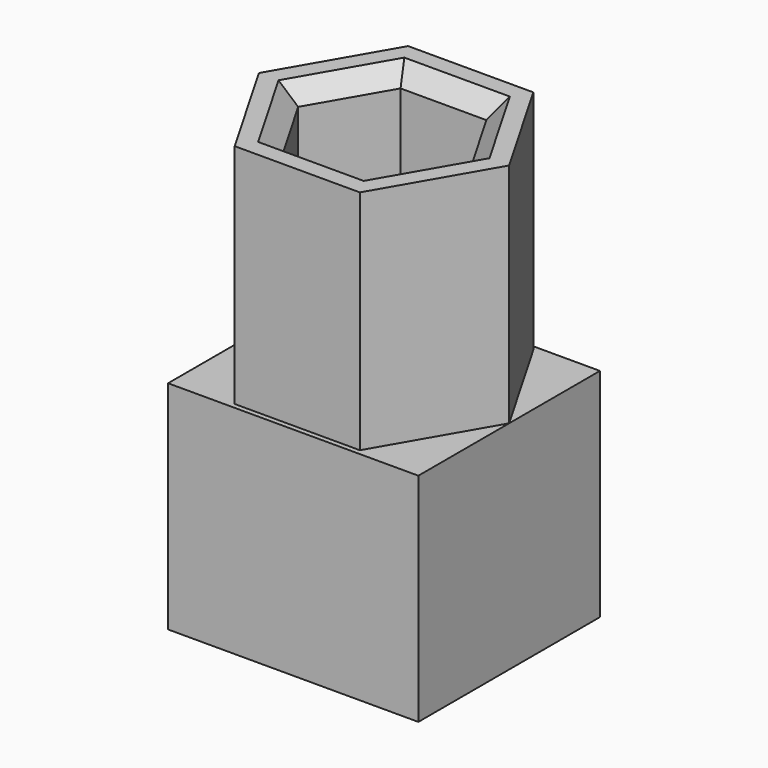
from build123d import *

# Parameters (mm, degrees)
SKETCH_W     = 22.05478
SKETCH_H     = 19.1
PAD_DEPTH    = 20
PAD001_DEPTH = 20
POCKET_DEPTH = 36.1
CHAMFER_SIZE = 1.5


with BuildPart() as part:
    # Sketch → Pad (new body)
    with BuildSketch(Plane.XZ):
        Rectangle(SKETCH_W, SKETCH_H)
    extrude(amount=PAD_DEPTH)

    # Sketch001 (on DatumPlane) → Pad001 (join)
    with BuildSketch(Plane(origin=(0, 0, 9.55), x_dir=(-1, 0, 0), z_dir=(0, 0, 1))):
        Polygon((-5.513695, 19.55), (-11.02739, 10), (-5.513695, 0.45), (5.513695, 0.45), (11.02739, 10), (5.513695, 19.55), align=None)
    extrude(amount=PAD001_DEPTH)

    # Sketch002 (on Face14 of Pad001) → Pocket (cut)
    with BuildSketch(Plane(origin=(0, 0, 29.55), x_dir=(-1, 0, 0), z_dir=(0, 0, 1))):
        Polygon((3.781644, 16.55), (-3.781644, 16.55), (-7.563289, 10), (-3.781644, 3.45), (3.781644, 3.45), (7.563289, 10), align=None)
    extrude(amount=-POCKET_DEPTH, mode=Mode.SUBTRACT)

    # Chamfer
    chamfer_edges = [part.edges().sort_by_distance(p)[0] for p in [
        (-5.672466, -6.725, 29.55),
        (-5.672466, -13.275, 29.55),
        (0, -3.45, 29.55),
        (5.672466, -6.725, 29.55),
        (5.672466, -13.275, 29.55),
        (0, -16.55, 29.55),
    ]]
    chamfer(chamfer_edges, length=CHAMFER_SIZE)


solid = part.part
